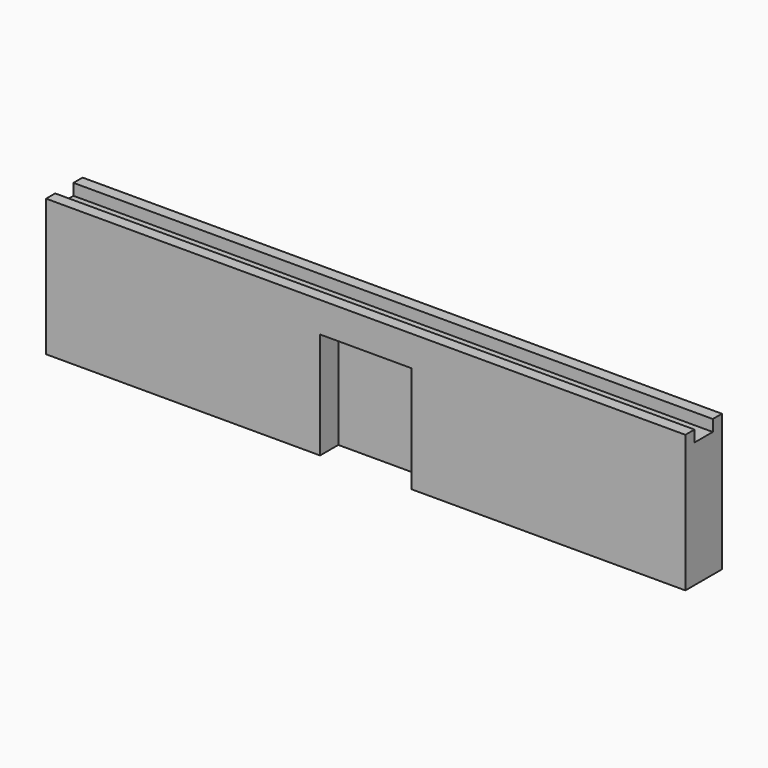
from build123d import *

# Parameters (mm, degrees)
SKETCH_W        = 533.4
SKETCH_H        = 38.1
PAD_DEPTH       = 114.3
SKETCH001_W     = 762
SKETCH001_H     = 19.05
POCKET_DEPTH    = 9.525
SKETCH003_W     = 76.2
SKETCH003_H     = 88.9
POCKET002_DEPTH = 19.05


with BuildPart() as part:
    # Sketch → Pad (new body)
    with BuildSketch(Plane.XY):
        Rectangle(SKETCH_W, SKETCH_H)
    extrude(amount=PAD_DEPTH)

    # Sketch001 (on Face6 of Pad) → Pocket (cut)
    with BuildSketch(Plane.XY.offset(114.3)):
        Rectangle(SKETCH001_W, SKETCH001_H)
    extrude(amount=-POCKET_DEPTH, mode=Mode.SUBTRACT)

    # Sketch003 → Pocket002 (cut)
    with BuildSketch(Plane.XZ.offset(19.05)):
        with Locations((0, 44.45)):
            Rectangle(SKETCH003_W, SKETCH003_H)
    extrude(amount=-POCKET002_DEPTH, mode=Mode.SUBTRACT)


solid = part.part
